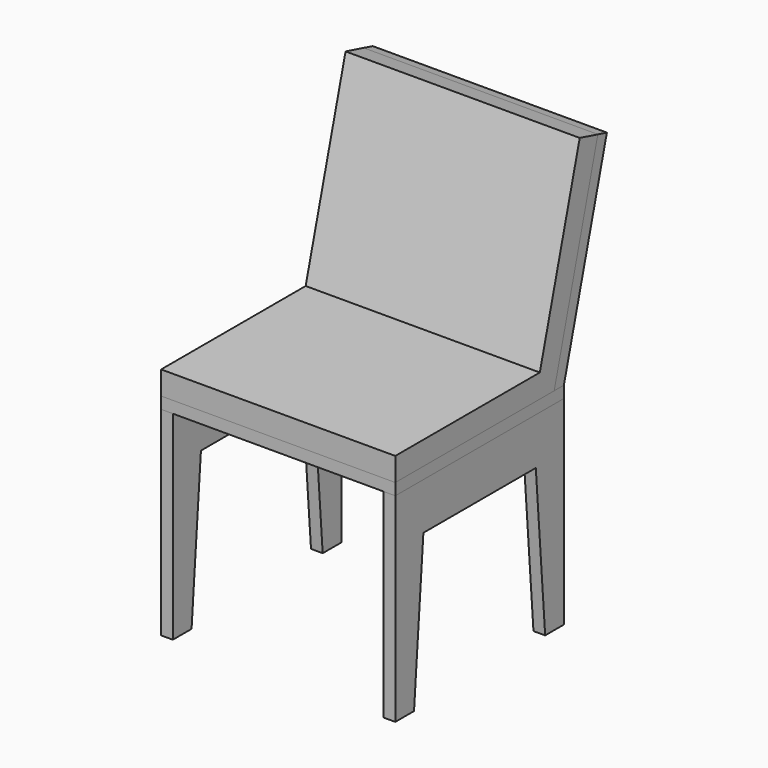
from build123d import *

# Parameters (mm, degrees)
F1_W     = 127
F1_H     = 114.3
F2_DEPTH = 6.35
F4_DEPTH = 127
F6_DEPTH = 127
F8_DEPTH = 6.35


with BuildPart() as f2:
    # F1 (on offset) → F2 (new body)
    with BuildSketch(Plane.XY.offset(114.3)):
        Rectangle(F1_W, F1_H)
    extrude(amount=-F2_DEPTH)


with BuildPart() as f4:
    # F3 (on face) → F4 (new body, through all)
    with BuildSketch(Plane.YZ.offset(63.5)):
        Polygon((50.575996, 114.3), (57.15, 114.3), (86.292642, 223.061821), (80.159013, 224.705322), align=None)
    extrude(amount=-F4_DEPTH)


with BuildPart() as f6:
    # F5 (on face) → F6 (new body, through all)
    with BuildSketch(Plane.YZ.offset(63.5)):
        Polygon((50.575996, 114.3), (80.159013, 224.705322), (67.891755, 227.992324), (40.830944, 127), (-57.15, 127), (-57.15, 114.3), align=None)
    extrude(amount=-F6_DEPTH)


with BuildPart() as f8:
    # F7 (on face) → F8 (new body)
    with BuildSketch(Plane.YZ.offset(63.5)):
        Polygon((57.15, 107.95), (-57.15, 107.95), (-57.15, 0), (-44.45, 0), (-38.1, 82.55), (38.1, 82.55), (44.45, 0), (57.15, 0), align=None)
    extrude(amount=-F8_DEPTH)


with BuildPart() as f9_1:
    # F9: instance of F8
    add(f8.part.mirror(Plane.YZ))


solid = Compound([f2.part, f4.part, f6.part, f8.part, f9_1.part])
